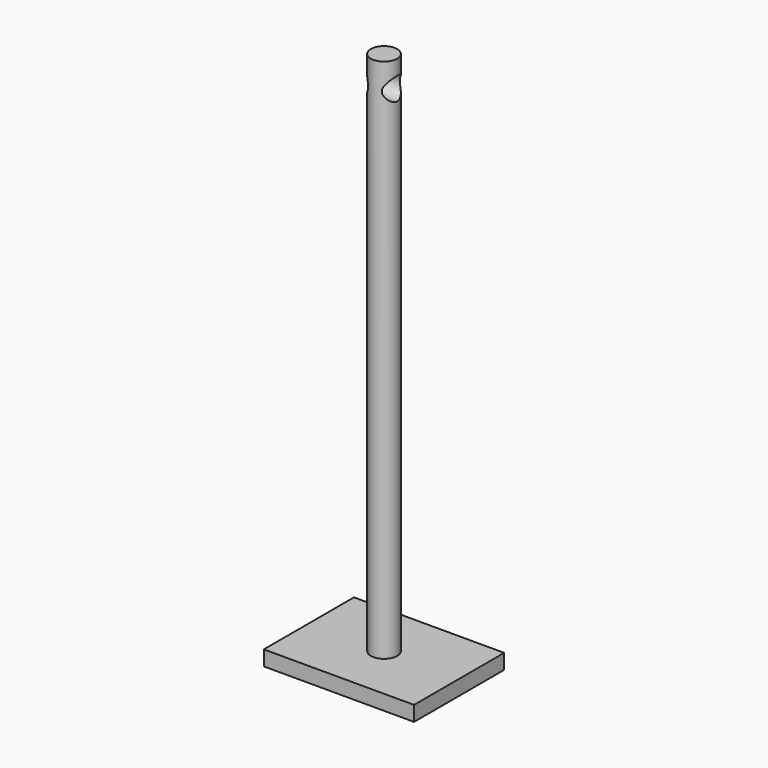
from build123d import *

# Parameters (mm, degrees)
F0_W     = 50.8
F0_H     = 5.08
F1_DEPTH = 38.1
F2_R     = 4.445
F3_DEPTH = 177.8
F4_R     = 3.81
F5_DEPTH = 50.673


with BuildPart() as f1:
    # F0 (on Front) → F1 (new body)
    with BuildSketch(Plane.XZ):
        with Locations((25.4, 2.54)):
            Rectangle(F0_W, F0_H)
    extrude(amount=F1_DEPTH)

    # F2 (on face) → F3 (join)
    with BuildSketch(Plane.XY.offset(5.08)):
        with Locations((25.4, -19.05)):
            Circle(F2_R)
    extrude(amount=F3_DEPTH)

    # F4 (on Right) → F5 (cut)
    with BuildSketch(Plane.YZ):
        with Locations((-19.05, 173.99)):
            Circle(F4_R)
    extrude(amount=F5_DEPTH, mode=Mode.SUBTRACT)


solid = f1.part
